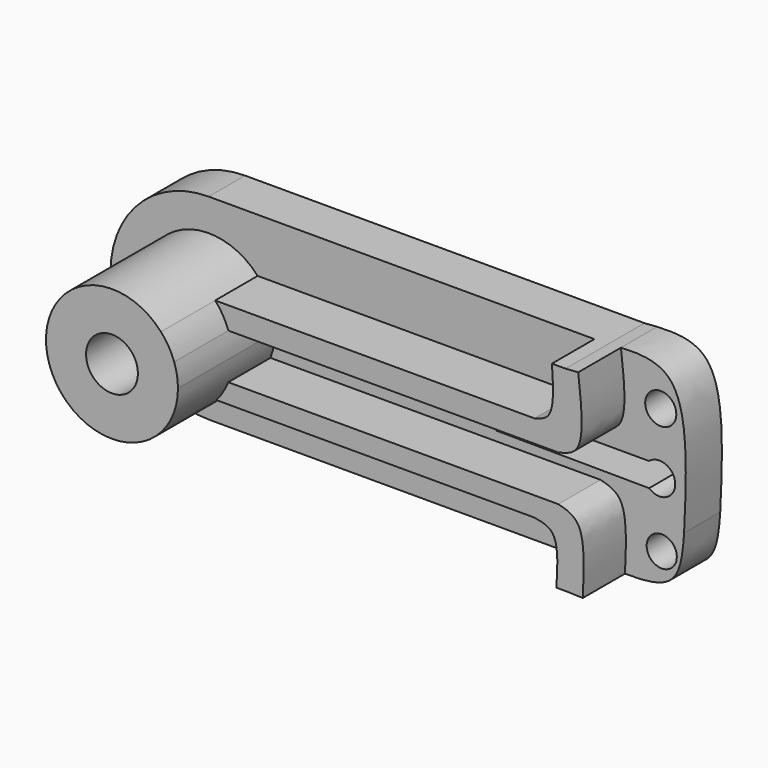
from build123d import *

# Parameters (mm, degrees)
F1_DEPTH = 146.39604
F0_R     = 83.392936441
F2_DEPTH = 535.26303
F3_DEPTH = 314.9086
F4_DEPTH = 317.17995
F0_R_2   = 48.5130356929
F0_R_3   = 50
F5_DEPTH = 145.32376


with BuildPart() as f1:
    # F0 (on Front) → F1 (new body)
    with BuildSketch(Plane.XZ):
        with BuildLine():
            Line((28.9590880275, -175.4914518826), (798.1629728788, -175.4914518826))
            add(Edge.make_bspline(
                [(726.2878835215, 0), (749.4564260521, -3.6950431615), (807.986100889, -13.0296689571), (801.8625568935, -114.3051358252), (798.1629728788, -175.4914518826)],
                knots=[0, 0, 0, 0, 0.3958426661, 1, 1, 1, 1], degree=3))
            Line((726.2878835215, 0), (-295.5661843732, 0))
            ThreePointArc((-295.5661843732, 0), (-667.1886575617, 138.684058053), (-297.4846392131, 282.4041657406))
            Line((-297.4846392131, 282.4041657406), (729.4129350169, 282.4041657406))
            add(Edge.make_bspline(
                [(729.4129350169, 282.4041657406), (747.6261257194, 287.3140311043), (795.952797715, 300.3418117303), (789.6132360534, 396.0934109874), (785.6629066882, 455.7584753077)],
                knots=[0, 0, 0, 0, 0.3768765766, 1, 1, 1, 1], degree=3))
            Line((785.6629066882, 455.7584753077), (-454.9619642401, 455.7584753077))
            ThreePointArc((-454.9619642401, 455.7584753077), (-770.5907953617, 138.5632624305), (-451.8369741687, -175.4914518826))
            Line((-451.8369741687, -175.4914518826), (28.9590880275, -175.4914518826))
        make_face()
    extrude(amount=F1_DEPTH)

    # F0 (on Front) → F2 (join)
    with BuildSketch(Plane.XZ):
        with BuildLine():
            ThreePointArc((-297.4846392131, 282.4041657406), (-667.1886575617, 138.684058053), (-295.5661843732, 0))
            ThreePointArc((-295.5661843732, 0), (-273.656680853, 29.8051433358), (-257.2551892643, 62.9618016028))
            ThreePointArc((-257.2551892643, 62.9618016028), (-246.3931852105, 100.8662258675), (-242.7303739653, 140.1257766123))
            ThreePointArc((-242.7303739653, 140.1257766123), (-245.778146476, 175.9640005668), (-254.8339283377, 210.7729078804))
            ThreePointArc((-254.8339283377, 210.7729078804), (-272.6074802891, 248.703352997), (-297.4846392131, 282.4041657406))
        make_face()
        with Locations((-454.9619642401, 140.1257766123)):
            Circle(F0_R, mode=Mode.SUBTRACT)
    extrude(amount=F2_DEPTH)

    # F0 (on Front) → F3 (join)
    with BuildSketch(Plane.XZ):
        with BuildLine():
            Line((798.1629728788, -175.4914518826), (829.4129794979, -175.4914518826))
            add(Edge.make_bspline(
                [(829.4129794979, -175.4914518826), (847.465214072, -176.203771441), (865.5174486461, -176.9160909994), (883.1099902927, -177.1965162426)],
                knots=[0, 0, 0, 0, 0.1205058402, 0.1205058402, 0.1205058402, 0.1205058402], degree=3))
            add(Edge.make_bspline(
                [(804.4128486555, 62.9618016028), (828.5267205054, 56.4951891145), (893.4177428317, 39.0775894842), (887.0936826735, -93.6873293316), (883.1099902927, -177.1965162426)],
                knots=[0, 0, 0, 0, 0.3715086385, 1, 1, 1, 1], degree=3))
            Line((804.4128486555, 62.9618016028), (-257.2551892643, 62.9618016028))
            ThreePointArc((-257.2551892643, 62.9618016028), (-273.656680853, 29.8051433358), (-295.5661843732, 0))
            Line((-295.5661843732, 0), (726.2878835215, 0))
            add(Edge.make_bspline(
                [(726.2878835215, 0), (749.4564260521, -3.6950431615), (807.986100889, -13.0296689571), (801.8625568935, -114.3051358252), (798.1629728788, -175.4914518826)],
                knots=[0, 0, 0, 0, 0.3958426661, 1, 1, 1, 1], degree=3))
        make_face()
    extrude(amount=F3_DEPTH)

    # F0 (on Front) → F4 (join)
    with BuildSketch(Plane.XZ):
        with BuildLine():
            add(Edge.make_bspline(
                [(804.4128476405, 210.7729078804), (828.9197638548, 216.1039467831), (896.2936796349, 230.7451115899), (880.3220514089, 370.0353389293), (870.172874346, 458.57987889)],
                knots=[0, 0, 0, 0, 0.363835826, 1, 1, 1, 1], degree=3))
            add(Edge.make_bspline(
                [(829.4129794979, 455.7584753077), (843.0623410115, 456.7960447436), (856.7117025252, 457.8336141794), (870.172874346, 458.57987889)],
                knots=[0, 0, 0, 0, 0.0723496884, 0.0723496884, 0.0723496884, 0.0723496884], degree=3))
            Line((829.4129794979, 455.7584753077), (785.6629066882, 455.7584753077))
            add(Edge.make_bspline(
                [(729.4129350169, 282.4041657406), (747.6261257194, 287.3140311043), (795.952797715, 300.3418117303), (789.6132360534, 396.0934109874), (785.6629066882, 455.7584753077)],
                knots=[0, 0, 0, 0, 0.3768765766, 1, 1, 1, 1], degree=3))
            Line((729.4129350169, 282.4041657406), (-297.4846392131, 282.4041657406))
            ThreePointArc((-297.4846392131, 282.4041657406), (-272.6074802891, 248.703352997), (-254.8339283377, 210.7729078804))
            Line((-254.8339283377, 210.7729078804), (804.4128476405, 210.7729078804))
        make_face()
    extrude(amount=F4_DEPTH)

    # F0 (on Front) → F5 (join)
    with BuildSketch(Plane.XZ):
        with BuildLine():
            add(Edge.make_bspline(
                [(804.4128486555, 62.9618016028), (828.5267205054, 56.4951891145), (893.4177428317, 39.0775894842), (887.0936826735, -93.6873293316), (883.1099902927, -177.1965162426)],
                knots=[0, 0, 0, 0, 0.3715086385, 1, 1, 1, 1], degree=3))
            add(Edge.make_bspline(
                [(883.1099902927, -177.1965162426), (943.4852931991, -178.1588990152), (1060.3679465943, -169.3878874077), (1068.7319224793, -58.6605543312), (1073.1629464026, 0)],
                knots=[0.1205058402, 0.1205058402, 0.1205058402, 0.1205058402, 0.5340661288, 1, 1, 1, 1], degree=3))
            add(Edge.make_bspline(
                [(870.172874346, 458.57987889), (932.4516179308, 462.0325076192), (1093.8840254449, 454.3206002683), (1081.2427804982, 177.1546292987), (1073.1629464026, 0)],
                knots=[0.0723496884, 0.0723496884, 0.0723496884, 0.0723496884, 0.4070789192, 1, 1, 1, 1], degree=3))
            add(Edge.make_bspline(
                [(804.4128476405, 210.7729078804), (828.9197638548, 216.1039467831), (896.2936796349, 230.7451115899), (880.3220514089, 370.0353389293), (870.172874346, 458.57987889)],
                knots=[0, 0, 0, 0, 0.363835826, 1, 1, 1, 1], degree=3))
            Line((804.4128476405, 210.7729078804), (-254.8339283377, 210.7729078804))
            ThreePointArc((-254.8339283377, 210.7729078804), (-245.778146476, 175.9640005668), (-242.7303739653, 140.1257766123))
            ThreePointArc((-242.7303739653, 140.1257766123), (-246.3931852105, 100.8662258675), (-257.2551892643, 62.9618016028))
            Line((-257.2551892643, 62.9618016028), (804.4128486555, 62.9618016028))
        make_face()
        with Locations((1001.2879099977, -75.4914651207)):
            Circle(F0_R_2, mode=Mode.SUBTRACT)
        with BuildLine():
            ThreePointArc((960.662880212, 166.9520690404), (1044.7099487557, 128.542793686), (960.662880212, 90.1335183316))
            Line((960.662880212, 90.1335183316), (470.0379563312, 93.2585150221))
            Line((470.0379563312, 93.2585150221), (470.0379563312, 166.9520690404))
            Line((470.0379563312, 166.9520690404), (960.662880212, 166.9520690404))
        make_face(mode=Mode.SUBTRACT)
        with Locations((998.1628669739, 327.6335117126)):
            Circle(F0_R_3, mode=Mode.SUBTRACT)
    extrude(amount=F5_DEPTH)


solid = f1.part
